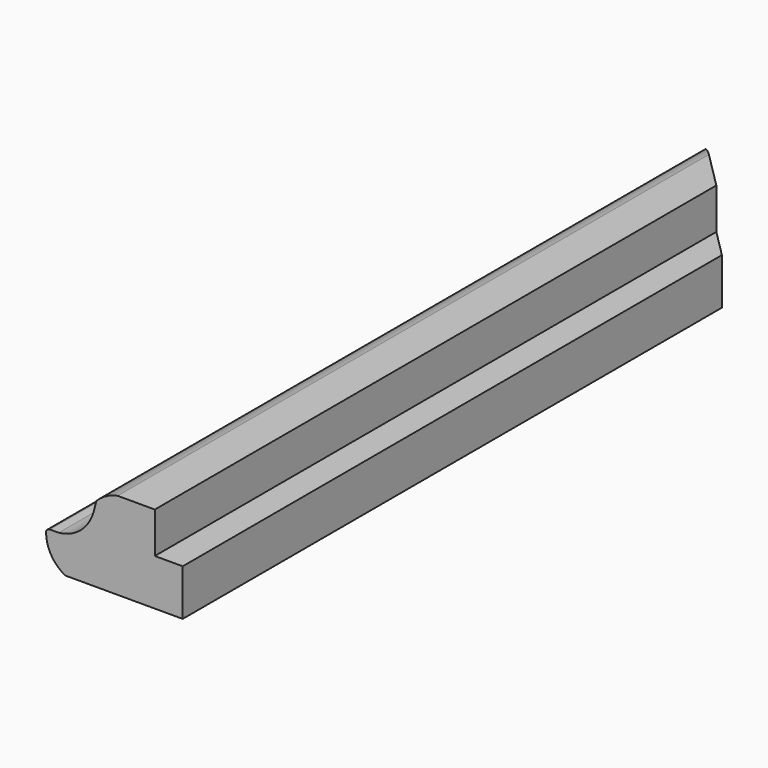
from build123d import *

# Parameters (mm, degrees)
F1_DEPTH = 168.5
F3_DEPTH = 25


with BuildPart() as f1:
    # F0 (on Front) → F1 (new body)
    with BuildSketch(Plane.XZ):
        with BuildLine():
            ThreePointArc((-28.4, 6.59), (-27.321745, 2.735519), (-24.4, 0))
            Line((-24.4, 0), (0, 0))
            Line((0, 0), (0, 9.63))
            Line((0, 9.63), (-5.8, 9.63))
            Line((-5.8, 9.63), (-5.8, 18.13))
            Line((-5.8, 18.13), (-13.53, 18.13))
            ThreePointArc((-13.53, 18.13), (-15.922153, 17.278285), (-17.95, 15.75))
            Line((-17.95, 15.75), (-18.506318, 13.629948))
            ThreePointArc((-18.506318, 13.629948), (-21.160411, 9.381487), (-25.756889, 7.39))
            Line((-25.756889, 7.39), (-27.6, 7.39))
            ThreePointArc((-27.6, 7.39), (-28.165685, 7.155685), (-28.4, 6.59))
        make_face()
    extrude(amount=F1_DEPTH)

    # F2 (on Top) → F3 (cut)
    with BuildSketch(Plane.XY):
        Polygon((-5.8, 0), (-28.4, 0), (-5.8, -22.6), align=None)
        Polygon((0, 0), (-5.8, 0), (-5.8, -22.6), (0, -28.4), align=None)
    extrude(amount=F3_DEPTH, mode=Mode.SUBTRACT)


solid = f1.part
